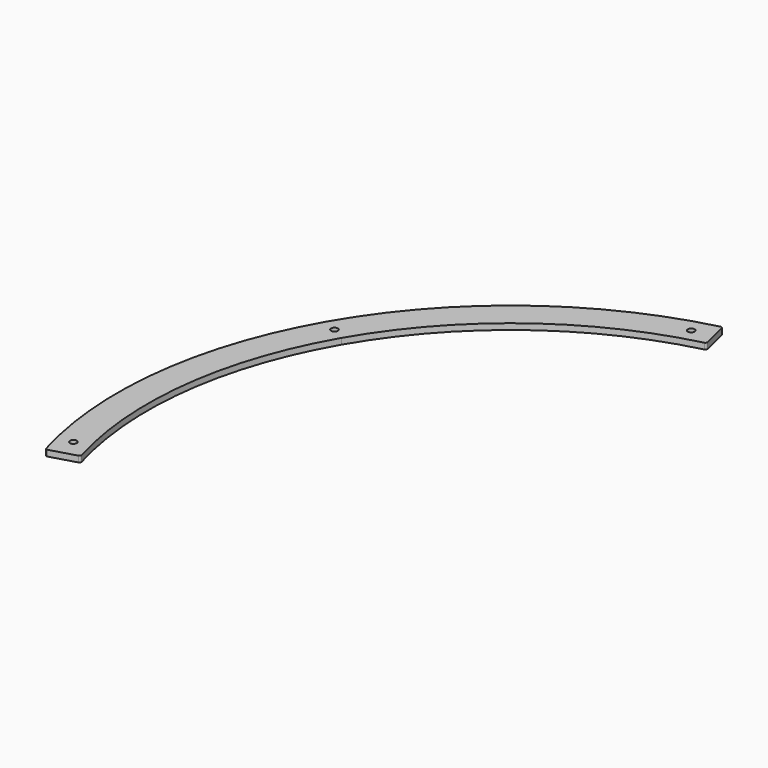
from build123d import *

# Parameters (mm, degrees)
PAD015_DEPTH                        = 3
SKETCH054_R                         = 1.7
POCKET018_DEPTH                     = 0.001
POCKET018_DEPTH_BACK                = 3.001
BODY001003005003004_PLACEMENT_ANGLE = 60


with BuildPart() as part:
    # Sketch053 → Pad015 (new body)
    with BuildSketch(Plane.XY):
        with BuildLine():
            Line((0, 181.875477), (0, 196.875477))
            ThreePointArc((141.573324, 136.809895), (76.894213, 181.238057), (0, 196.875477))
            ThreePointArc((141.545448, 135.39235), (141.85403, 136.095329), (141.573324, 136.809895))
            Line((132.151008, 126.406294), (141.545448, 135.39235))
            ThreePointArc((130.740934, 126.433766), (131.440303, 126.129123), (132.151008, 126.406294))
            ThreePointArc((130.740934, 126.433766), (71.005238, 167.442364), (0, 181.875477))
        make_face()
    pad015 = extrude(amount=PAD015_DEPTH)

    # Mirrored020: Pad015 across Sketch053 V_Axis
    add(pad015.mirror(Plane(origin=(0, 0, 0), x_dir=(0, 0, 1), z_dir=(1, 0, 0))))

    # Sketch054 → Pocket018 (cut, two sides)
    with BuildSketch(Plane.XY) as pocket018_sk:
        with Locations((129.747586, 137.940691)):
            Circle(SKETCH054_R)
        with Locations((0, 189.372834)):
            Circle(SKETCH054_R)
        with Locations((-129.747586, 137.940691)):
            Circle(SKETCH054_R)
    extrude(amount=-POCKET018_DEPTH, mode=Mode.SUBTRACT)
    extrude(pocket018_sk.sketch, amount=POCKET018_DEPTH_BACK, mode=Mode.SUBTRACT)


with BuildPart() as part_1:
    # Body001003005003004 placement: moved
    add(part.part.rotate(Axis((0, 0, 0), (0, 0, 1)), BODY001003005003004_PLACEMENT_ANGLE))


solid = part_1.part
